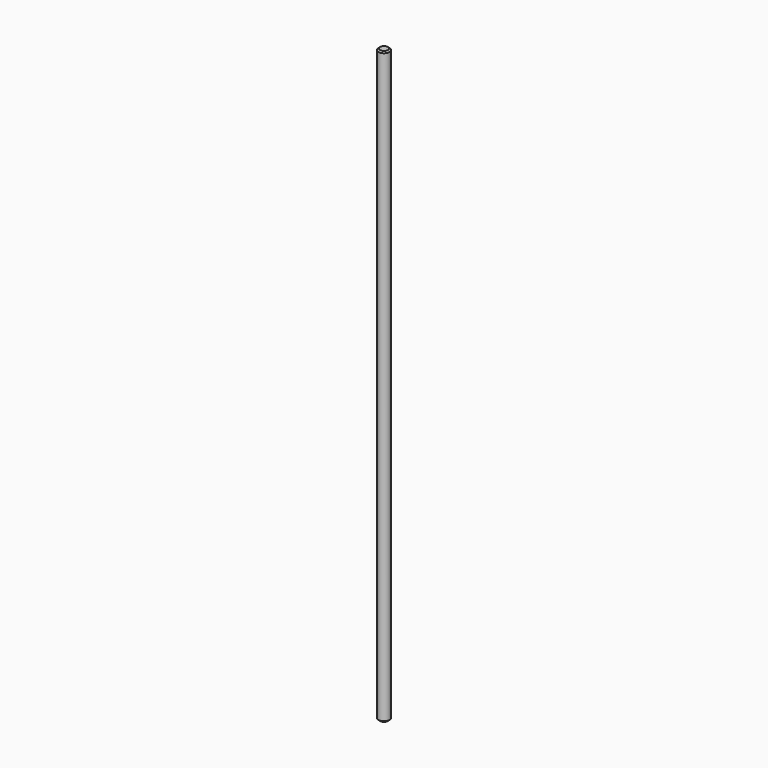
from build123d import *

# Parameters (mm, degrees)
SKETCH_R     = 4
PAD_DEPTH    = 433
CHAMFER_SIZE = 1


with BuildPart() as part:
    # Sketch → Pad (new body)
    with BuildSketch(Plane.XY):
        Circle(SKETCH_R)
    extrude(amount=PAD_DEPTH)

    # Chamfer
    chamfer_edges = [part.edges().sort_by_distance(p)[0] for p in [
        (-4, 0, 0),
        (-4, 0, 433),
    ]]
    chamfer(chamfer_edges, length=CHAMFER_SIZE)


solid = part.part
